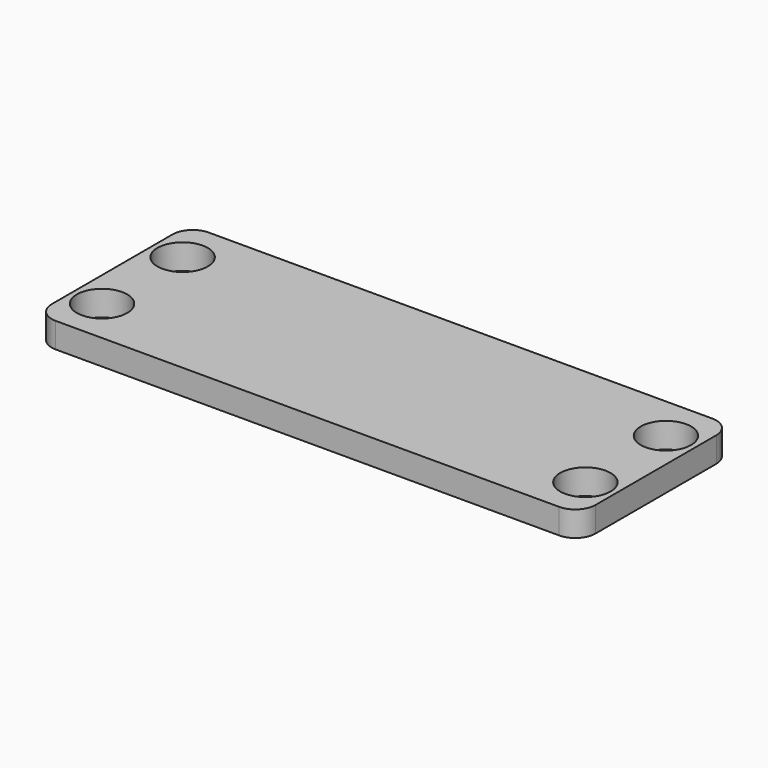
from build123d import *

# Parameters (mm, degrees)
SKETCH008_W     = 54
SKETCH008_H     = 19
PAD006_DEPTH    = 2.5
SKETCH009_R     = 2.5
POCKET002_DEPTH = 2.501
FILLET007_R     = 2
FILLET008_R     = 2
FILLET009_R     = 2
FILLET010_R     = 2
PAD007_DEPTH    = 0.5


with BuildPart() as part:
    # Sketch008 → Pad006 (new body)
    with BuildSketch(Plane.XY):
        Rectangle(SKETCH008_W, SKETCH008_H)
    extrude(amount=PAD006_DEPTH)

    # Sketch009 (on Face6 of Pad006) → Pocket002 (cut, through all)
    with BuildSketch(Plane.XY.offset(2.5)):
        with Locations((-24, 5)):
            Circle(SKETCH009_R)
        with Locations((24, 5)):
            Circle(SKETCH009_R)
        with Locations((24, -5)):
            Circle(SKETCH009_R)
        with Locations((-24, -5)):
            Circle(SKETCH009_R)
    extrude(amount=-POCKET002_DEPTH, mode=Mode.SUBTRACT)

    # Fillet007
    fillet007_edges = [part.edges().sort_by_distance(p)[0] for p in [
        (27, 9.5, 1.25),
    ]]
    fillet(fillet007_edges, radius=FILLET007_R)

    # Fillet008
    fillet008_edges = [part.edges().sort_by_distance(p)[0] for p in [
        (-27, 9.5, 1.25),
    ]]
    fillet(fillet008_edges, radius=FILLET008_R)

    # Fillet009
    fillet009_edges = [part.edges().sort_by_distance(p)[0] for p in [
        (-27, -9.5, 1.25),
    ]]
    fillet(fillet009_edges, radius=FILLET009_R)

    # Fillet010
    fillet010_edges = [part.edges().sort_by_distance(p)[0] for p in [
        (27, -9.5, 1.25),
    ]]
    fillet(fillet010_edges, radius=FILLET010_R)

    # Sketch010 → Pad007 (join, symmetric)
    with BuildSketch(Plane.XZ):
        Polygon((-27, 0), (-19.6, 0), (-19.6, -2), align=None)
    pad007 = extrude(amount=PAD007_DEPTH, both=True)

    # Mirrored: Pad007 across Sketch010 V_Axis
    add(pad007.mirror(Plane(origin=(0, 0, 0), x_dir=(0, -1, 0), z_dir=(1, 0, 0))))


solid = part.part
